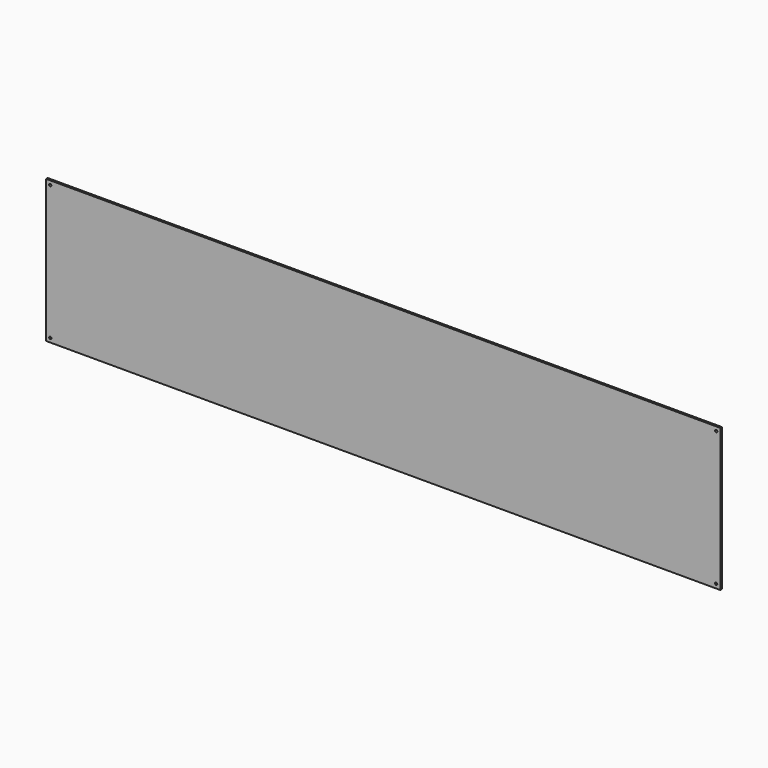
from build123d import *

# Parameters (mm, degrees)
F0_W     = 2048.4
F0_H     = 433.6
F1_DEPTH = 6
F3_D     = 7
F3_DEPTH = 100


with BuildPart() as f1:
    # F0 (on Front) → F1 (new body)
    with BuildSketch(Plane.XZ):
        Rectangle(F0_W, F0_H)
    extrude(amount=F1_DEPTH)

    # F3
    with Locations(Plane(origin=(0, 0, 0), x_dir=(-1, 0, 0), z_dir=(0, 1, 0))):
        with Locations((1011.5, 204.1), (1011.5, -204.1), (-1011.5, 204.1), (-1011.5, -204.1)):
            Hole(F3_D / 2, depth=F3_DEPTH)


solid = f1.part
